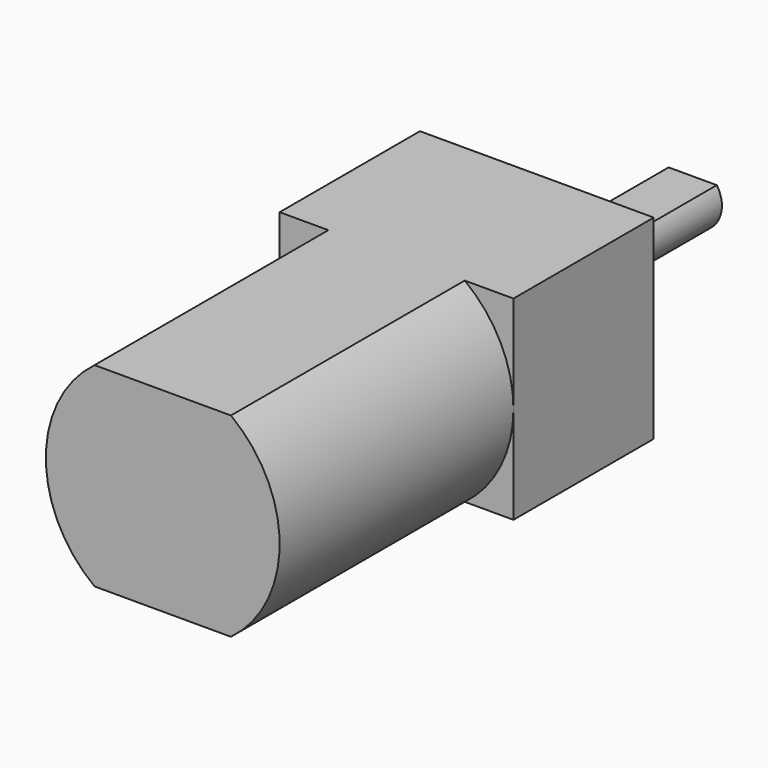
from build123d import *

# Parameters (mm, degrees)
F1_DEPTH = 15
F2_W     = 12
F2_H     = 10
F3_DEPTH = 9
F5_DEPTH = 10


with BuildPart() as f1:
    # F0 (on Front) → F1 (new body)
    with BuildSketch(Plane.XZ):
        with BuildLine():
            Line((3.5, 5), (-3.5, 5))
            ThreePointArc((-3.5, 5), (-6, 0), (-3.5, -5))
            Line((-3.5, -5), (3.5, -5))
            ThreePointArc((3.5, -5), (6, 0), (3.5, 5))
        make_face()
    extrude(amount=F1_DEPTH)

    # F2 (on face) → F3 (join)
    with BuildSketch(Plane(origin=(0, 0, 0), x_dir=(-1, 0, 0), z_dir=(0, 1, 0))):
        Rectangle(F2_W, F2_H)
    extrude(amount=F3_DEPTH)

    # F4 (on face) → F5 (join)
    with BuildSketch(Plane(origin=(0, 9, 0), x_dir=(-1, 0, 0), z_dir=(0, 1, 0))):
        with BuildLine():
            Line((1.2359207094, 0.85), (-1.2359207094, 0.85))
            ThreePointArc((-1.2359207094, 0.85), (0, -1.5), (1.2359207094, 0.85))
        make_face()
    extrude(amount=F5_DEPTH)


solid = f1.part
